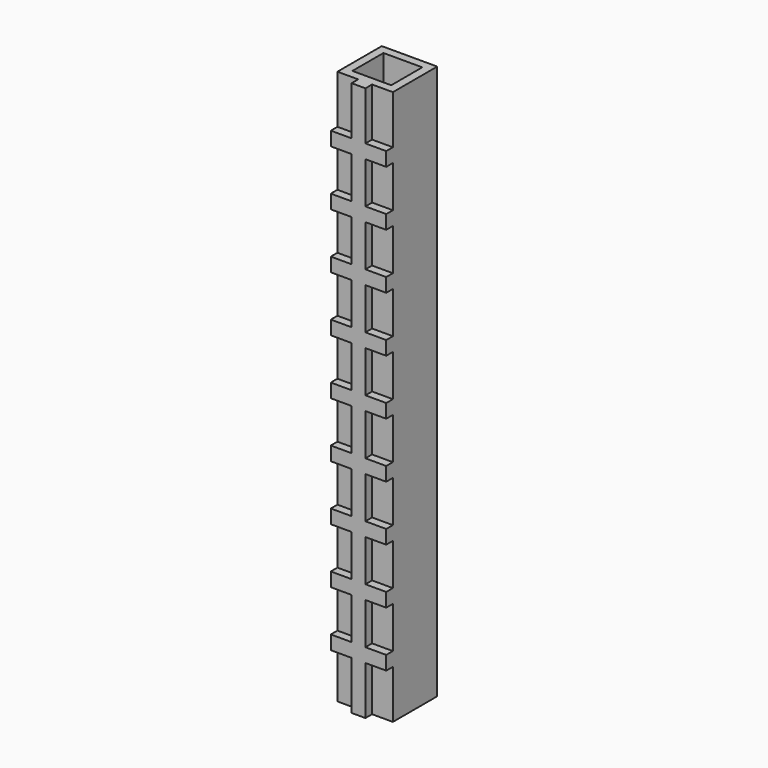
from build123d import *

# Parameters (mm, degrees)
F0_W     = 10
F0_H     = 10
F1_DEPTH = 100
F2_T     = -1.5
F4_DEPTH = 1.5


with BuildPart() as f1:
    # F0 (on Top) → F1 (new body)
    with BuildSketch(Plane.XY):
        Rectangle(F0_W, F0_H)
    extrude(amount=F1_DEPTH)

    # F2
    f2_openings = [f1.faces().sort_by_distance(p)[0] for p in [
        (0, 0, 100),
    ]]
    offset(amount=F2_T, openings=f2_openings)

    # F3 (on face) → F4 (join)
    with BuildSketch(Plane.XZ.offset(5)):
        Polygon((1.25, 100), (-1.25, 100), (-1.25, 91.25), (-5, 91.25), (-5, 88.75), (-1.25, 88.75), (-1.25, 81.25), (-5, 81.25), (-5, 78.75), (-1.25, 78.75), (-1.25, 71.25), (-5, 71.25), (-5, 68.75), (-1.25, 68.75), (-1.25, 61.25), (-5, 61.25), (-5, 58.75), (-1.25, 58.75), (-1.25, 51.25), (-5, 51.25), (-5, 48.75), (-1.25, 48.75), (-1.25, 41.25), (-5, 41.25), (-5, 38.75), (-1.25, 38.75), (-1.25, 31.25), (-5, 31.25), (-5, 28.75), (-1.25, 28.75), (-1.25, 21.25), (-5, 21.25), (-5, 18.75), (-1.25, 18.75), (-1.25, 11.25), (-5, 11.25), (-5, 8.75), (-1.25, 8.75), (-1.25, 0), (1.25, 0), (1.25, 8.75), (5, 8.75), (5, 11.25), (1.25, 11.25), (1.25, 18.75), (5, 18.75), (5, 21.25), (1.25, 21.25), (1.25, 28.75), (5, 28.75), (5, 31.25), (1.25, 31.25), (1.25, 38.75), (5, 38.75), (5, 41.25), (1.25, 41.25), (1.25, 48.75), (5, 48.75), (5, 51.25), (1.25, 51.25), (1.25, 58.75), (5, 58.75), (5, 61.25), (1.25, 61.25), (1.25, 68.75), (5, 68.75), (5, 71.25), (1.25, 71.25), (1.25, 78.75), (5, 78.75), (5, 81.25), (1.25, 81.25), (1.25, 88.75), (5, 88.75), (5, 91.25), (1.25, 91.25), align=None)
    extrude(amount=F4_DEPTH)


solid = f1.part
